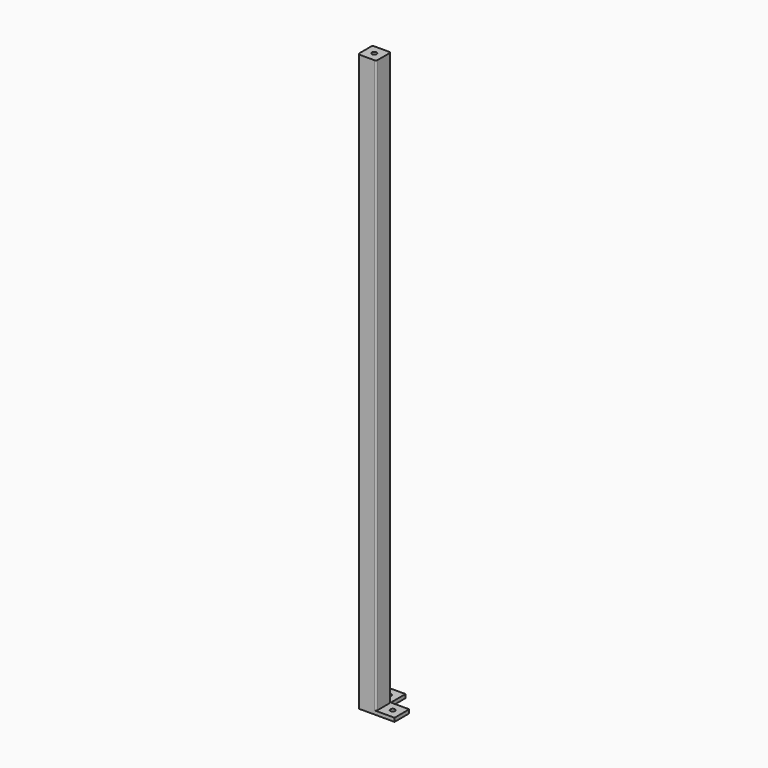
from build123d import *

# Parameters (mm, degrees)
F0_W     = 40
F0_H     = 40
F1_DEPTH = 1550
F2_R     = 6.5
F3_DEPTH = 10
F4_R     = 6.5
F5_DEPTH = 10


with BuildPart() as f1:
    # F0 (on Top) → F1 (new body)
    with BuildSketch(Plane.XY):
        with BuildLine():
            Line((-20, -25), (20, -25))
            ThreePointArc((20, -25), (23.535534, -23.535534), (25, -20))
            Line((25, -20), (25, 20))
            ThreePointArc((25, 20), (23.535534, 23.535534), (20, 25))
            Line((20, 25), (-20, 25))
            ThreePointArc((-20, 25), (-23.535534, 23.535534), (-25, 20))
            Line((-25, 20), (-25, -20))
            ThreePointArc((-25, -20), (-23.535534, -23.535534), (-20, -25))
        make_face()
        Rectangle(F0_W, F0_H, mode=Mode.SUBTRACT)
    extrude(amount=F1_DEPTH)

    # F2 (on face) → F3 (join)
    with BuildSketch(Plane.XY.offset(1550)):
        with BuildLine():
            Line((20, 25), (-20, 25))
            ThreePointArc((-20, 25), (-23.535534, 23.535534), (-25, 20))
            Line((-25, 20), (-25, -20))
            ThreePointArc((-25, -20), (-23.535534, -23.535534), (-20, -25))
            Line((-20, -25), (20, -25))
            ThreePointArc((20, -25), (23.535534, -23.535534), (25, -20))
            Line((25, -20), (25, 20))
            ThreePointArc((25, 20), (23.535534, 23.535534), (20, 25))
        make_face()
        Circle(F2_R, mode=Mode.SUBTRACT)
    extrude(amount=F3_DEPTH)

    # F4 (on face) → F5 (join)
    with BuildSketch(Plane(origin=(0, 0, 0), x_dir=(1, 0, 0), z_dir=(0, 0, -1))):
        with BuildLine():
            ThreePointArc((-20, 25), (-23.535534, 23.535534), (-25, 20))
            Line((-25, 20), (-25, -75))
            Line((-25, -75), (25, -75))
            Line((25, -75), (25, -25))
            Line((25, -25), (75, -25))
            Line((75, -25), (75, 25))
            Line((75, 25), (-20, 25))
        make_face()
        with Locations((0, -50)):
            Circle(F4_R, mode=Mode.SUBTRACT)
        with Locations((50, 0)):
            Circle(F4_R, mode=Mode.SUBTRACT)
    extrude(amount=F5_DEPTH)


solid = f1.part
